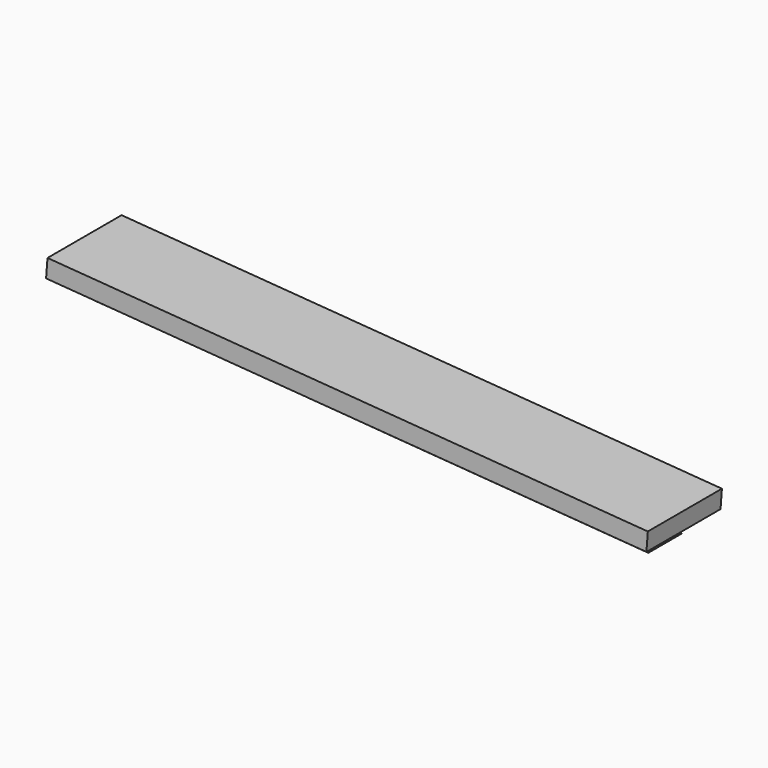
from build123d import *

# Parameters (mm, degrees)
PAD001_DEPTH        = 30
SKETCH002_W         = 10
SKETCH002_H         = 65
PAD002_DEPTH        = 2
PAD003_DEPTH        = 2.25
BODY001_PITCH_ANGLE = 4.34


with BuildPart() as part:
    # Sketch001 (on DatumPlane) → Pad001 (new body)
    with BuildSketch(Plane.YZ.offset(31)):
        Polygon((-1, 2), (1, 2), (1, 1.25), (2.25, 0), (-2.25, 0), (-1, 1.25), align=None)
    extrude(amount=PAD001_DEPTH)

    # Sketch002 (on DatumPlane) → Pad002 (join)
    with BuildSketch(Plane(origin=(31, 0, 2), x_dir=(0, -1, 0), z_dir=(0, 0, 1))):
        with Locations((0, -0.65176)):
            Rectangle(SKETCH002_W, SKETCH002_H)
    extrude(amount=PAD002_DEPTH)

    # Sketch003 (on DatumPlane) → Pad003 (join, symmetric)
    with BuildSketch(Plane.XZ):
        Polygon((1, 2), (1, 0), (2, 0), (5.464102, 2), align=None)
    extrude(amount=PAD003_DEPTH, both=True)


with BuildPart() as part_1:
    # Body001 pitch: moved
    add(part.part.rotate(Axis((0, 0, 0), (0, 1, 0)), BODY001_PITCH_ANGLE))


with BuildPart() as part_2:
    # Body001 placement: moved
    add(part_1.part.moved(Location((3, 0, 43))))


solid = part_2.part
